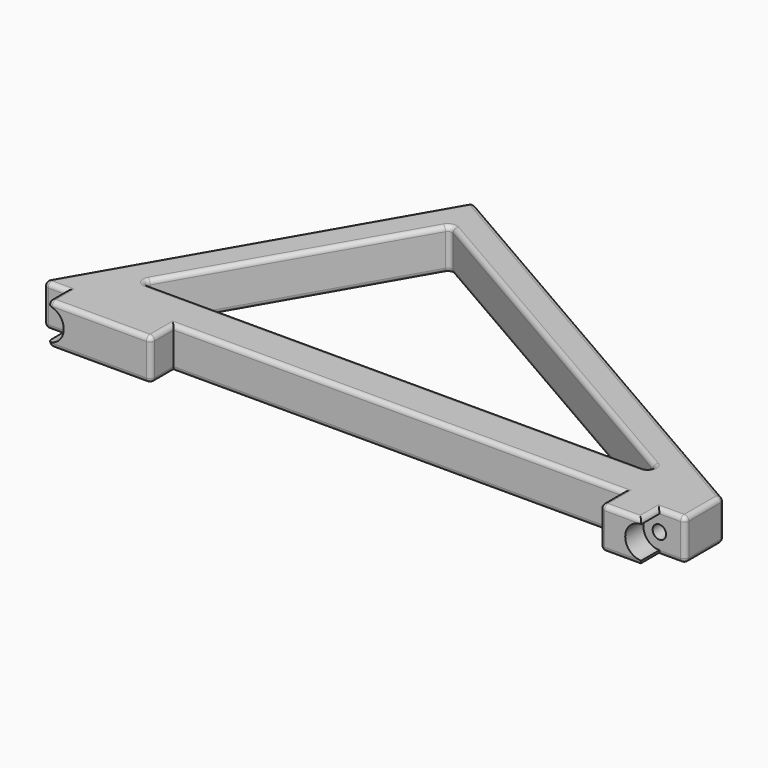
from build123d import *

# Parameters (mm, degrees)
PAD_DEPTH       = 4
POCKET_DEPTH    = 4.4
SKETCH003_R     = 1.3
POCKET001_DEPTH = 60.935119
SKETCH004_R     = 2.5
POCKET002_DEPTH = 57.935119
FILLET_R        = 0.89


with BuildPart() as part:
    # Sketch001 → Pad (new body, symmetric)
    with BuildSketch(Plane.XY):
        Polygon((-63.75, 0), (-26.029329, 65.334119), (63.75, 13.5), (63.75, 0), (50.75, 0), (50.75, 5.5), (-36.25, 5.5), (-36.25, 0), align=None)
        Polygon((-49.027568, 13.5), (-23.833176, 57.137967), (51.75, 13.5), align=None, mode=Mode.SUBTRACT)
    extrude(amount=PAD_DEPTH, both=True)

    # Sketch002 → Pocket (cut)
    with BuildSketch(Plane.XZ):
        with BuildLine():
            ThreePointArc((-56.25, -3.1), (-53.15, 0), (-56.25, 3.1))
            Line((-56.25, 3.1), (-56.25, 4))
            Line((-56.25, 4), (-63.75, 4))
            Line((-63.75, 4), (-63.75, -4))
            Line((-63.75, -4), (-56.25, -4))
            Line((-56.25, -3.1), (-56.25, -4))
        make_face()
        with BuildLine():
            ThreePointArc((58.75, 3.1), (55.65, 0), (58.75, -3.1))
            Line((58.75, -3.1), (58.75, -4))
            Line((63.75, -4), (58.75, -4))
            Line((63.75, 4), (63.75, -4))
            Line((58.75, 4), (63.75, 4))
            Line((58.75, 3.1), (58.75, 4))
        make_face()
    extrude(amount=-POCKET_DEPTH, mode=Mode.SUBTRACT)

    # Sketch003 → Pocket001 (cut, through all)
    with BuildSketch(Plane.XZ.offset(-4.4)):
        with Locations((-56.25, 0)):
            Circle(SKETCH003_R)
        with Locations((58.75, 0)):
            Circle(SKETCH003_R)
    extrude(amount=-POCKET001_DEPTH, mode=Mode.SUBTRACT)

    # Sketch004 → Pocket002 (cut, through all)
    with BuildSketch(Plane.XZ.offset(-7.4)):
        with Locations((-56.25, 0)):
            Circle(SKETCH004_R)
        with Locations((58.75, 0)):
            Circle(SKETCH004_R)
    extrude(amount=-POCKET002_DEPTH, mode=Mode.SUBTRACT)

    # Fillet
    fillet_edges = [part.edges().sort_by_distance(p)[0] for p in [
        (-43.619494, 34.86706, -4),
        (18.860336, 39.41706, -4),
        (63.75, 8.95, -4),
        (61.25, 4.4, -4),
        (58.75, 2.2, -4),
        (54.75, 0, -4),
        (50.75, 2.75, -4),
        (7.25, 5.5, -4),
        (-36.25, 2.75, -4),
        (-46.25, 0, -4),
        (-56.25, 2.2, -4),
        (-58.729829, 4.4, -4),
        (-36.430372, 35.318984, -4),
        (1.361216, 13.5, -4),
        (13.958412, 35.318984, -4),
        (-43.619494, 34.86706, 4),
        (18.860336, 39.41706, 4),
        (63.75, 8.95, 4),
        (61.25, 4.4, 4),
        (58.75, 2.2, 4),
        (54.75, 0, 4),
        (50.75, 2.75, 4),
        (7.25, 5.5, 4),
        (-36.25, 2.75, 4),
        (-46.25, 0, 4),
        (-56.25, 2.2, 4),
        (-58.729829, 4.4, 4),
        (-36.430372, 35.318984, 4),
        (1.361216, 13.5, 4),
        (13.958412, 35.318984, 4),
        (63.75, 4.4, 0),
        (63.75, 13.5, 0),
        (-49.027568, 13.5, 0),
        (-23.833176, 57.137967, 0),
        (51.75, 13.5, 0),
        (-26.029329, 65.334119, 0),
        (-61.209659, 4.4, 0),
        (-56.25, 0, 3.55),
        (-56.25, 0, -3.55),
        (-36.25, 0, 0),
        (50.75, 0, 0),
    ]]
    fillet(fillet_edges, radius=FILLET_R)


solid = part.part
